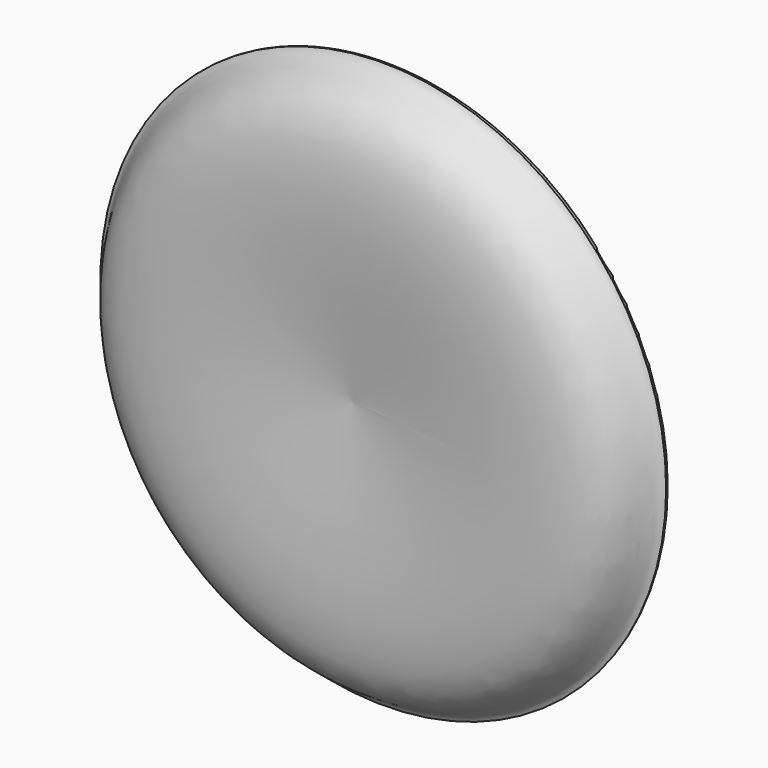
from build123d import *


with BuildPart() as f1:
    # F0 (on Top) → F1 (revolve)
    with BuildSketch(Plane.XY):
        with BuildLine():
            Line((0, -4.7214520164), (0, -7.8964520164))
            add(Edge.make_bspline(
                [(0, -7.8964520164), (18.082753551, -9.3490210563), (48.5268909998, -15.0878185373), (51.3596266723, -1.0953812681), (53.2155893743, -0.6580045447)],
                knots=[0, 0, 0, 0, 0.688605233, 1, 1, 1, 1], degree=3))
            ThreePointArc((53.2155893743, -0.6580045447), (52.300316581, 0.6438073998), (50.7115758087, 0.7351385738))
            add(Edge.make_bspline(
                [(0, -4.7214520164), (17.02340872, 0), (43.0923608956, -11.3478563187), (49.1794199313, 0.3694890617), (50.7115758087, 0.7351385738)],
                knots=[0, 0, 0, 0, 0.685262846, 1, 1, 1, 1], degree=3))
        make_face()
    revolve(axis=Axis((0, -6.3089520164, 0), (0, 1, 0)))


solid = f1.part
